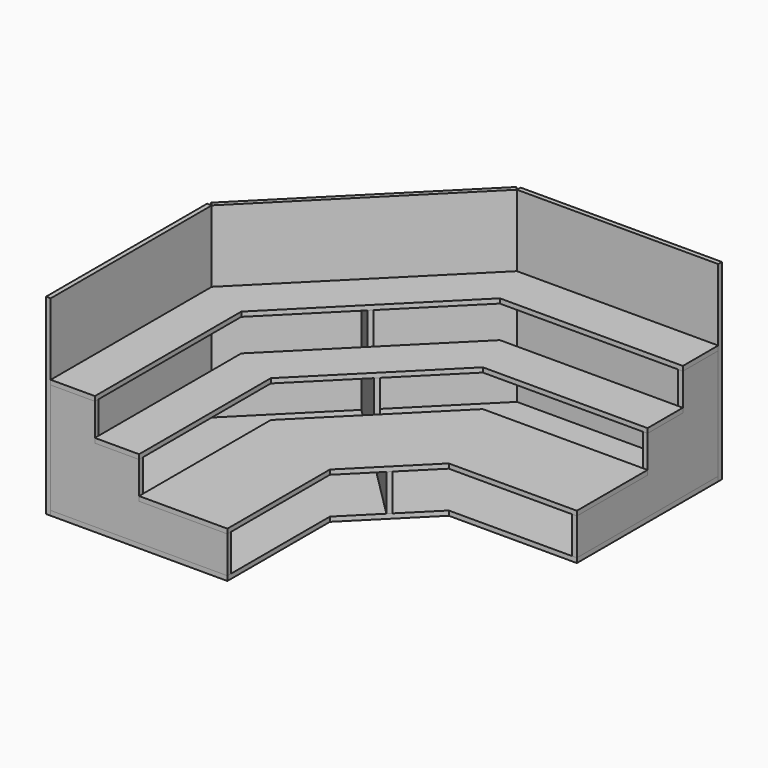
from build123d import *

# Parameters (mm, degrees)
F2_DEPTH       = 3.15
F4_DEPTH       = 3.15
F6_DEPTH       = 3.15
F7_W           = 136.7056274848
F7_H           = 130
F8_DEPTH       = 3.15
F9_W           = 136.7056274848
F9_H           = 130
F10_DEPTH      = 3.15
F11_W          = 162.838733242
F11_H          = 130
F12_DEPTH      = 3.15
F16_DEPTH      = 1.575
F16_DEPTH_BACK = 1.575
F18_DEPTH      = 3.15
F20_DEPTH      = 3.15
F22_DEPTH      = 3.15


with BuildPart() as f2:
    # F1 (on Top) → F2 (new body)
    with BuildSketch(Plane.XY):
        Polygon((0, 136.7056274848), (0, 0), (120, 0), (120, 87), (164.85, 131.85), (251.85, 131.85), (251.85, 251.85), (115.1443725152, 251.85), align=None)
    extrude(amount=F2_DEPTH)


with BuildPart() as f4:
    # F3 (on face) → F4 (new body)
    with BuildSketch(Plane.XZ):
        Polygon((0, 78.15), (0, 3.15), (120, 3.15), (120, 28.15), (60, 28.15), (60, 53.15), (30, 53.15), (30, 78.15), align=None)
    extrude(amount=-F4_DEPTH)


with BuildPart() as f6:
    # F5 (on face) → F6 (new body)
    with BuildSketch(Plane.YZ.offset(251.85)):
        Polygon((251.85, 78.15), (221.85, 78.15), (221.85, 53.15), (191.85, 53.15), (191.85, 28.15), (131.85, 28.15), (131.85, 3.15), (251.85, 3.15), align=None)
    extrude(amount=-F6_DEPTH)


with BuildPart() as f8:
    # F7 (on face) → F8 (new body)
    with BuildSketch(Plane(origin=(0, 0, 0), x_dir=(0, -1, 0), z_dir=(-1, 0, 0))):
        with Locations((-68.3528137424, 65)):
            Rectangle(F7_W, F7_H)
    extrude(amount=F8_DEPTH)


with BuildPart() as f10:
    # F9 (on face) → F10 (new body)
    with BuildSketch(Plane(origin=(0, 251.85, 0), x_dir=(-1, 0, 0), z_dir=(0, 1, 0))):
        with Locations((-183.4971862576, 65)):
            Rectangle(F9_W, F9_H)
    extrude(amount=F10_DEPTH)


with BuildPart() as f12:
    # F11 (on face) → F12 (new body)
    with BuildSketch(Plane(origin=(-68.3528137424, 68.3528137424, 0), x_dir=(-0.7071067812, -0.7071067812, 0), z_dir=(-0.7071067812, 0.7071067812, 0))):
        with Locations((-178.0848428418, 65)):
            Rectangle(F11_W, F11_H)
    extrude(amount=F12_DEPTH)


with BuildPart() as f16:
    # F15 (on plane+point) → F16 (new body, two sides)
    with BuildSketch(Plane(origin=(125.925, 125.925, 0), x_dir=(0.7071067812, -0.7071067812, 0), z_dir=(-0.7071067812, -0.7071067812, 0))) as f16_sk:
        Polygon((-66.6654762208, 78.15), (-96.6654762208, 78.15), (-96.6654762208, 3.15), (23.3345237792, 3.15), (23.3345237792, 28.15), (-36.6654762208, 28.15), (-36.6654762208, 53.15), (-66.6654762208, 53.15), align=None)
    extrude(amount=F16_DEPTH)
    extrude(f16_sk.sketch, amount=-F16_DEPTH_BACK)


with BuildPart() as f18:
    # F17 (on face) → F18 (new body)
    with BuildSketch(Plane.XY.offset(28.15)):
        Polygon((251.85, 191.85), (139.9971862576, 191.85), (60, 111.8528137424), (60, 0), (120, 0), (120, 87), (164.85, 131.85), (251.85, 131.85), align=None)
    extrude(amount=F18_DEPTH)


with BuildPart() as f20:
    # F19 (on face) → F20 (new body)
    with BuildSketch(Plane.XY.offset(53.15)):
        Polygon((251.85, 221.85), (127.5707793864, 221.85), (30, 124.2792206136), (30, 0), (60, 0), (60, 111.8528137424), (139.9971862576, 191.85), (251.85, 191.85), align=None)
    extrude(amount=F20_DEPTH)


with BuildPart() as f22:
    # F21 (on face) → F22 (new body)
    with BuildSketch(Plane.XY.offset(78.15)):
        Polygon((0, 136.7056274848), (0, 0), (30, 0), (30, 124.2792206136), (127.5707793864, 221.85), (251.85, 221.85), (251.85, 251.85), (115.1443725152, 251.85), align=None)
    extrude(amount=F22_DEPTH)


solid = Compound([f2.part, f4.part, f6.part, f8.part, f10.part, f12.part, f16.part, f18.part, f20.part, f22.part])
